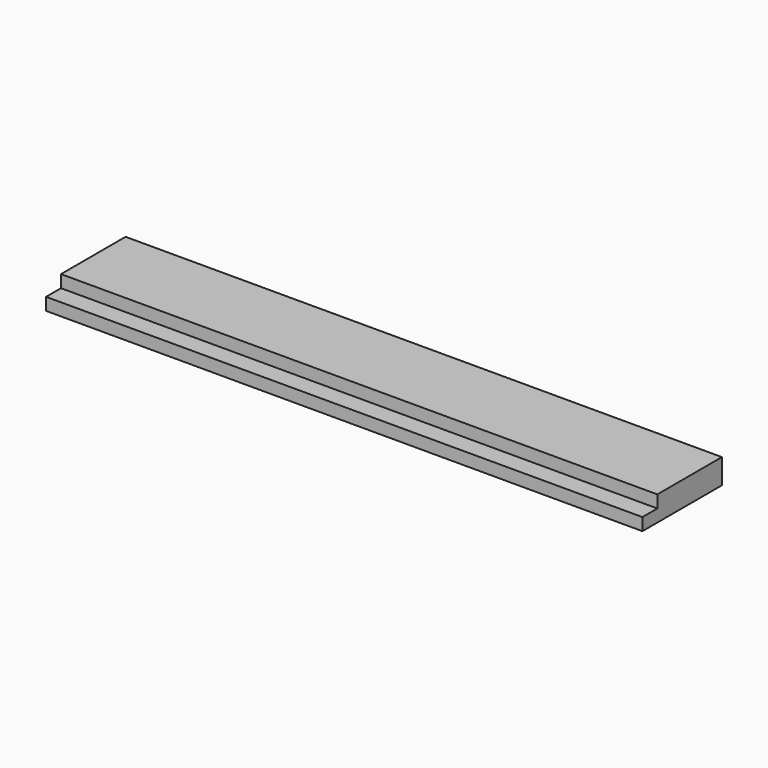
from build123d import *

# Parameters (mm, degrees)
F0_W      = 609.6
F0_H      = 82.55
F1_DEPTH  = 12.7
F0_H_2    = 19.05
F1_FACE_W = 609.6
F1_FACE_H = 82.55
F2_DEPTH  = 12.7


with BuildPart() as f1:
    # F0 (on Top) → F1 (new body)
    with BuildSketch(Plane.XY):
        with Locations((-3.896274, 51.138431)):
            Rectangle(F0_W, F0_H)
    extrude(amount=F1_DEPTH)

    # F0 (on Top) + F1_face (on face) → F2 (join)
    with BuildSketch(Plane.XY):
        with Locations((-3.896274, 51.138431)):
            Rectangle(F0_W, F0_H)
        with Locations((-3.896274, 0.338431)):
            Rectangle(F0_W, F0_H_2)
    with BuildSketch(Plane(origin=(-3.896274, 51.138431, 12.7), x_dir=(1, 0, 0), z_dir=(0, 0, 1))):
        Rectangle(F1_FACE_W, F1_FACE_H)
    extrude(amount=F2_DEPTH)


solid = f1.part
